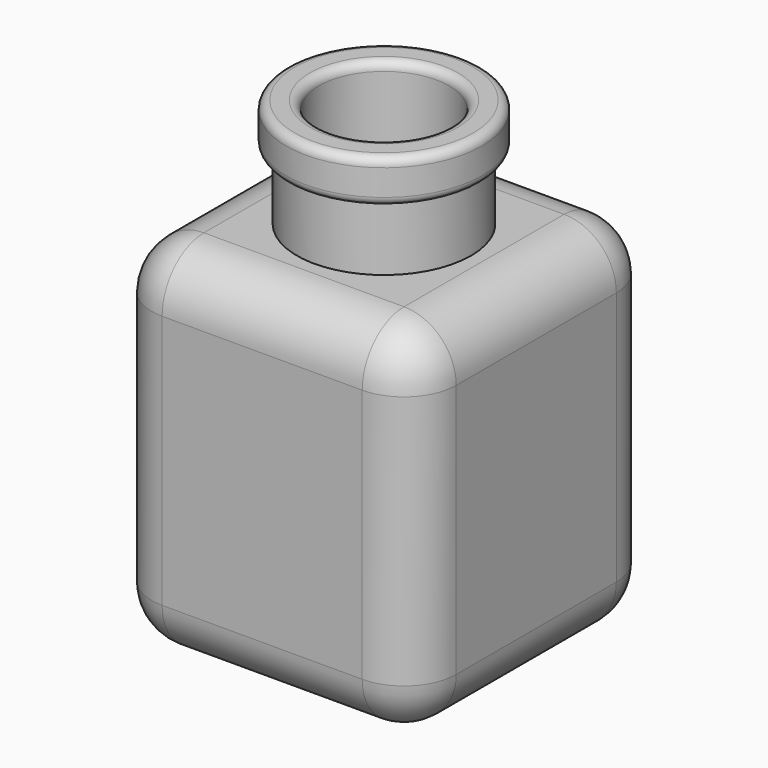
from build123d import *

# Parameters (mm, degrees)
F1_DEPTH  = 70
F2_T      = -8
F3_W      = 70
F3_H      = 70
F3_R      = 15
F4_DEPTH  = 4.5
F5_R      = 20
F5_R_2    = 15
F6_DEPTH  = 15
F7_R      = 22.5
F7_R_2    = 15
F8_DEPTH  = 10
F9_W      = 70
F9_H      = 70
F10_DEPTH = 8
F11_W     = 40
F11_H     = 40
F12_DEPTH = 6
F13_R     = 12
F14_R     = 2
F15_R     = 2.5
F16_R     = 3


with BuildPart() as f1:
    # F0 (on Top) → F1 (new body)
    with BuildSketch(Plane.XY):
        Polygon((-35, -35), (0, -35), (35, -35), (35, 0), (35, 35), (0, 35), (-35, 35), (-35, 0), align=None)
    extrude(amount=-F1_DEPTH)

    # F2
    f2_openings = [f1.faces().sort_by_distance(p)[0] for p in [
        (0, 0, 0),
    ]]
    offset(amount=F2_T, openings=f2_openings)

    # F3 (on face) → F4 (join)
    with BuildSketch(Plane.XY):
        Rectangle(F3_W, F3_H)
        Circle(F3_R, mode=Mode.SUBTRACT)
    extrude(amount=F4_DEPTH)

    # F5 (on face) → F6 (join)
    with BuildSketch(Plane.XY.offset(4.5)):
        Circle(F5_R)
        Circle(F5_R_2, mode=Mode.SUBTRACT)
    extrude(amount=F6_DEPTH)

    # F7 (on face) → F8 (join)
    with BuildSketch(Plane.XY.offset(19.5)):
        Circle(F7_R)
        Circle(F7_R_2, mode=Mode.SUBTRACT)
    extrude(amount=F8_DEPTH)

    # F9 (on face) → F10 (join)
    with BuildSketch(Plane(origin=(0, 0, -70), x_dir=(1, 0, 0), z_dir=(0, 0, -1))):
        Rectangle(F9_W, F9_H)
    extrude(amount=F10_DEPTH)

    # F11 (on face) → F12 (cut)
    with BuildSketch(Plane(origin=(0, 0, -78), x_dir=(1, 0, 0), z_dir=(0, 0, -1))):
        Rectangle(F11_W, F11_H)
    extrude(amount=-F12_DEPTH, mode=Mode.SUBTRACT)

    # F13
    f13_edges = [f1.edges().sort_by_distance(p)[0] for p in [
        (35, -35, -36.75),
        (0, -35, -78),
        (-35, -35, -36.75),
        (-35, 0, -78),
        (-35, 35, -36.75),
        (0, 35, -78),
        (35, 35, -36.75),
        (35, 0, -78),
        (35, 0, 4.5),
        (0, 35, 4.5),
        (-35, 0, 4.5),
        (0, -35, 4.5),
    ]]
    fillet(f13_edges, radius=F13_R)

    # F14
    f14_edges = [f1.edges().sort_by_distance(p)[0] for p in [
        (-22.5, 0, 29.5),
        (-22.5, 0, 19.5),
        (-15, 0, 29.5),
    ]]
    fillet(f14_edges, radius=F14_R)

    # F15
    f15_edges = [f1.edges().sort_by_distance(p)[0] for p in [
        (0, 20, -78),
        (-20, 0, -78),
        (0, -20, -78),
        (20, 0, -78),
        (0, 20, -72),
        (-20, 0, -72),
        (0, -20, -72),
        (20, 0, -72),
        (-20, 20, -75),
        (-20, -20, -75),
        (20, 20, -75),
        (20, -20, -75),
    ]]
    fillet(f15_edges, radius=F15_R)

    # F16
    f16_edges = [f1.edges().sort_by_distance(p)[0] for p in [
        (27, 0, -62),
        (27, -27, -31),
        (0, -27, 0),
        (-27, -27, -31),
        (-27, 0, -62),
        (-27, 0, 0),
        (-27, 27, -31),
        (0, 27, 0),
        (0, 27, -62),
        (0, -27, -62),
        (27, 27, -31),
        (27, 0, 0),
    ]]
    fillet(f16_edges, radius=F16_R)


solid = f1.part
